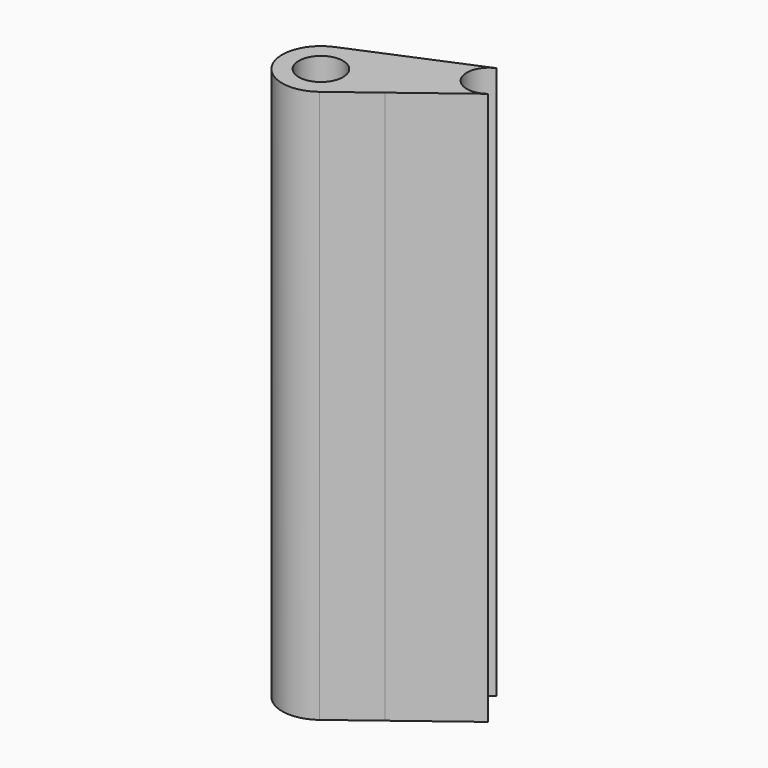
from build123d import *

# Parameters (mm, degrees)
F0_R     = 1
F1_DEPTH = 25


with BuildPart() as f1:
    # F0 (on Top) → F1 (new body)
    with BuildSketch(Plane.XY):
        with BuildLine():
            ThreePointArc((1.05758, -1.394283), (1.567365, -0.778375), (1.75, 0))
            ThreePointArc((1.75, 0), (0.96819, 1.457775), (-0.678694, 1.613033))
            ThreePointArc((-0.678694, 1.613033), (-1.515544, -0.875), (1.05758, -1.394283))
        make_face()
        Circle(F0_R, mode=Mode.SUBTRACT)
        with BuildLine():
            ThreePointArc((-0.678694, 1.613033), (0.96819, 1.457775), (1.75, 0))
            ThreePointArc((1.75, 0), (1.567365, -0.778375), (1.05758, -1.394283))
            Line((1.05758, -1.394283), (2.895761, 0))
            Line((2.895761, 0), (5.800484, 2.203267))
            ThreePointArc((5.800484, 2.203267), (4.330127, 2.5), (4.808327, 3.921733))
            Line((4.808327, 3.921733), (-0.678694, 1.613033))
        make_face()
    extrude(amount=F1_DEPTH)


solid = f1.part
